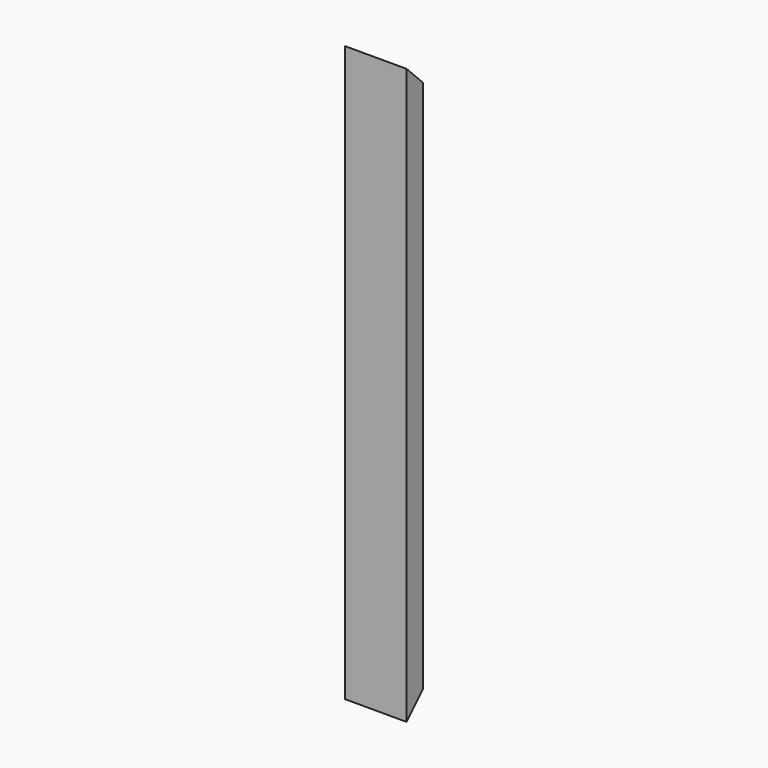
from build123d import *

# Parameters (mm, degrees)
F0_W          = 76.2
F0_H          = 25.4
F0_W_2        = 69.85
F0_H_2        = 19.05
F1_DEPTH      = 355.6
F1_DEPTH_BACK = 355.6
F3_DEPTH      = 76.201


with BuildPart() as f1:
    # F0 (on Top) → F1 (new body, two sides)
    with BuildSketch(Plane.XY) as f1_sk:
        with Locations((38.1, -12.7)):
            Rectangle(F0_W, F0_H)
        with Locations((38.1, -12.7)):
            Rectangle(F0_W_2, F0_H_2, mode=Mode.SUBTRACT)
    extrude(amount=F1_DEPTH)
    extrude(f1_sk.sketch, amount=-F1_DEPTH_BACK)

    # F2 (on face) → F3 (cut, through all)
    with BuildSketch(Plane.YZ.offset(76.2)):
        Polygon((0, 355.6), (-25.4, 355.6), (0, 330.2), align=None)
        Polygon((0, -330.2), (-25.4, -355.6), (0, -355.6), align=None)
    extrude(amount=-F3_DEPTH, mode=Mode.SUBTRACT)


solid = f1.part
